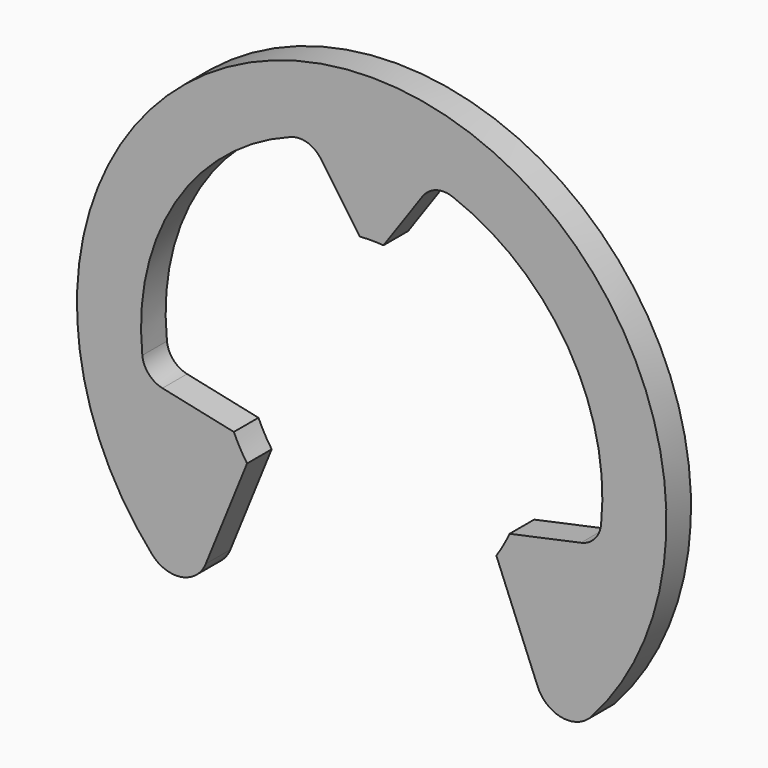
from build123d import *

# Parameters (mm, degrees)
SKETCH044_R     = 7.3025
SKETCH044_R_2   = 3.7465
PAD006_DEPTH    = 0.762
POCKET005_DEPTH = 0.763
FILLET002_R     = 0.79375
FILLET003_R     = 0.635


with BuildPart() as part:
    # Sketch044 → Pad006 (new body)
    with BuildSketch(Plane.XZ):
        Circle(SKETCH044_R)
        Circle(SKETCH044_R_2, mode=Mode.SUBTRACT)
    extrude(amount=PAD006_DEPTH)

    # Sketch045 (on Face4 of Pad006) → Pocket005 (cut, through all)
    with BuildSketch(Plane.XZ.offset(0.762)):
        with BuildLine():
            Line((-4.545908, -5.715), (-3.087808, -2.121721))
            Line((-3.087808, -2.121721), (-2.896797, -1.651))
            Line((-2.896797, -1.651), (-3.415378, -1.539953))
            Line((-3.415378, -1.539953), (-5.614107, -1.069124))
            ThreePointArc((-1.531348, 5.506015), (-4.855151, 3.014752), (-5.614107, -1.069124))
            Line((-0.291377, 3.735152), (-1.531348, 5.506015))
            Line((-0.291377, 3.735152), (0, 3.319023))
            Line((0, 3.319023), (0.291377, 3.735152))
            Line((0.291377, 3.735152), (1.531348, 5.506015))
            ThreePointArc((5.614107, -1.069124), (4.855151, 3.014752), (1.531348, 5.506015))
            Line((3.415378, -1.539953), (5.614107, -1.069124))
            Line((3.415378, -1.539953), (2.896797, -1.651))
            Line((2.896797, -1.651), (3.087808, -2.121721))
            Line((4.545908, -5.715), (3.087808, -2.121721))
            Line((4.545908, -5.715), (5.040156, -5.715))
            ThreePointArc((-5.040156, -5.715), (0, -7.62), (5.040156, -5.715))
            Line((-4.545908, -5.715), (-5.040156, -5.715))
        make_face()
    extrude(amount=-POCKET005_DEPTH, mode=Mode.SUBTRACT)

    # Fillet002
    fillet002_edges = [part.edges().sort_by_distance(p)[0] for p in [
        (-4.545908, -0.381, -5.715),
        (4.545908, -0.381, -5.715),
    ]]
    fillet(fillet002_edges, radius=FILLET002_R)

    # Fillet003
    fillet003_edges = [part.edges().sort_by_distance(p)[0] for p in [
        (-5.614107, -0.381, -1.069124),
        (5.614107, -0.381, -1.069124),
        (-1.531348, -0.381, 5.506015),
        (1.531348, -0.381, 5.506015),
    ]]
    fillet(fillet003_edges, radius=FILLET003_R)


with BuildPart() as part_1:
    # Body004 placement: moved
    add(part.part.moved(Location((0, 2.0955, 0))))


solid = part_1.part
